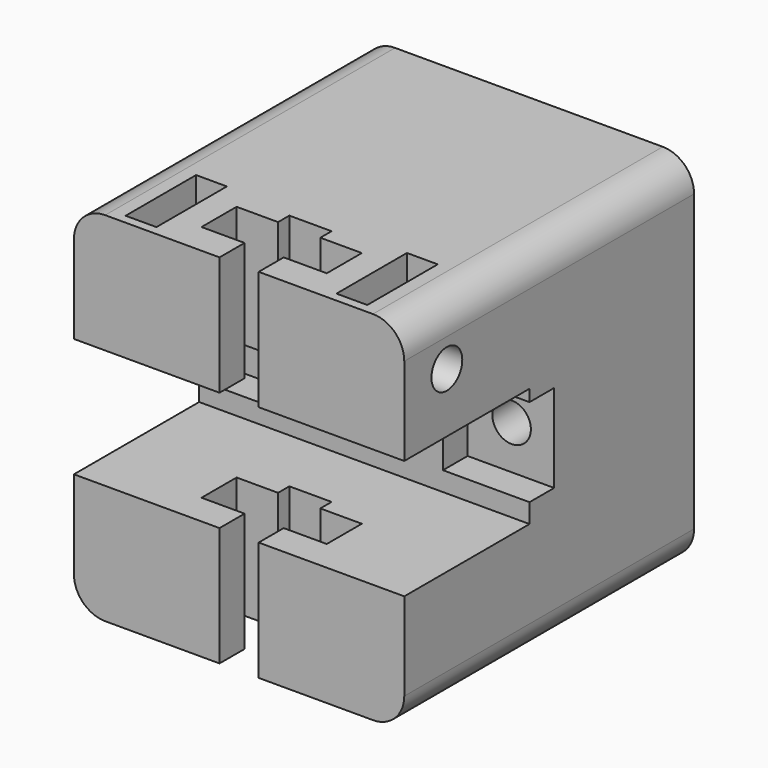
from build123d import *

# Parameters (mm, degrees)
F1_DEPTH  = 29
F2_W      = 26.8
F2_H      = 9.666666
F3_DEPTH  = 12.7
F4_R      = 2.54
F5_R      = 1.5625
F6_DEPTH  = 16.689
F7_W      = 7.14375
F7_H      = 7.14375
F8_DEPTH  = 2.5
F11_R     = 1.5625
F12_DEPTH = 26.801
F15_W     = 2.5
F15_H     = 7.14375
F16_DEPTH = 7.82


with BuildPart() as f1:
    # F0 (on Top) → F1 (new body)
    with BuildSketch(Plane.XY):
        Polygon((-11.8125, 0), (0, 0), (0, 29.389), (-26.8, 29.389), (-26.8, 0), (-14.9875, 0), (-14.9875, 2.54), (-18.48, 2.54), (-18.48, 6.096), (-15.1145, 6.096), (-15.1145, 7.239), (-11.6855, 7.239), (-11.6855, 6.096), (-8.32, 6.096), (-8.32, 2.54), (-11.8125, 2.54), align=None)
    extrude(amount=F1_DEPTH)

    # F2 (on face) → F3 (cut)
    with BuildSketch(Plane.XZ):
        with Locations((-13.4, 14.5)):
            Rectangle(F2_W, F2_H)
    extrude(amount=-F3_DEPTH, mode=Mode.SUBTRACT)

    # F4
    f4_edges = [f1.edges().sort_by_distance(p)[0] for p in [
        (0, 14.6945, 29),
        (-26.8, 14.6945, 29),
        (-26.8, 14.6945, 0),
        (0, 14.6945, 0),
    ]]
    fillet(f4_edges, radius=F4_R)

    # F5 (on face) → F6 (cut, through all)
    with BuildSketch(Plane(origin=(0, 29.389, 0), x_dir=(-1, 0, 0), z_dir=(0, 1, 0))):
        with Locations((3.45, 14.8)):
            Circle(F5_R)
        with Locations((23.35, 14.8)):
            Circle(F5_R)
    extrude(amount=-F6_DEPTH, mode=Mode.SUBTRACT)

    # F7 (on face) → F8 (cut)
    with BuildSketch(Plane.XZ.offset(-12.7)):
        with Locations((-23.35, 14.8)):
            Rectangle(F7_W, F7_H)
        with Locations((-3.45, 14.8)):
            Rectangle(F7_W, F7_H)
    extrude(amount=-F8_DEPTH, mode=Mode.SUBTRACT)

    # F11 (on face) → F12 (cut, through all)
    with BuildSketch(Plane.YZ):
        with Locations((4.318, 24.158125)):
            Circle(F11_R)
    extrude(amount=-F12_DEPTH, mode=Mode.SUBTRACT)

    # F15 (on face) → F16 (cut)
    with BuildSketch(Plane.XY.offset(29)):
        with Locations((-4.8475, 4.318)):
            Rectangle(F15_W, F15_H)
        with Locations((-21.9525, 4.318)):
            Rectangle(F15_W, F15_H)
    extrude(amount=-F16_DEPTH, mode=Mode.SUBTRACT)


solid = f1.part
